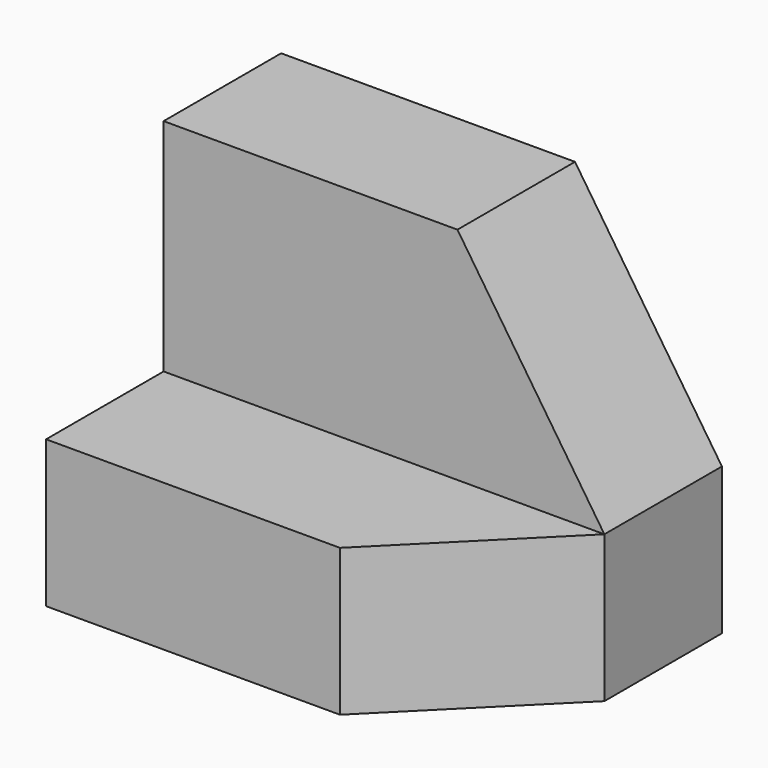
from build123d import *

# Parameters (mm, degrees)
F1_DEPTH = 38.1
F3_DEPTH = 25.4
F5_DEPTH = 25.4


with BuildPart() as f1:
    # F0 (on Right) → F1 (new body)
    with BuildSketch(Plane.YZ):
        Polygon((-25.4, 0), (0, 0), (0, 31.75), (-12.7, 31.75), (-12.7, 12.7), (-25.4, 12.7), align=None)
    extrude(amount=F1_DEPTH)

    # F2 (on face) → F3 (cut)
    with BuildSketch(Plane.XZ.offset(12.7)):
        Polygon((38.1, 31.75), (25.4, 31.75), (38.1, 12.7), align=None)
    extrude(amount=-F3_DEPTH, mode=Mode.SUBTRACT)

    # F4 (on face) → F5 (cut)
    with BuildSketch(Plane.XY.offset(12.7)):
        Polygon((38.1, -25.4), (38.1, -12.7), (25.4, -25.4), align=None)
    extrude(amount=-F5_DEPTH, mode=Mode.SUBTRACT)


solid = f1.part
